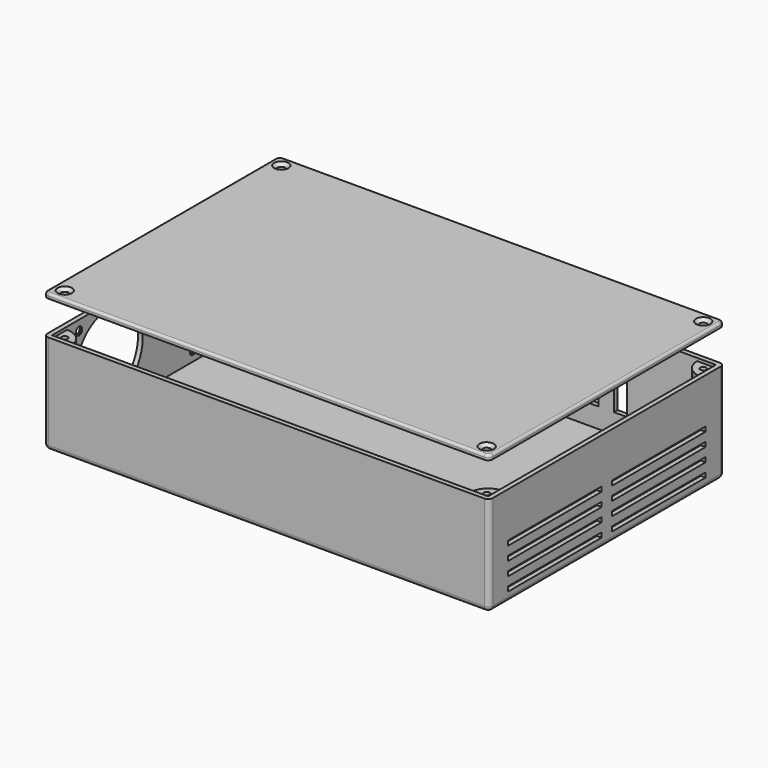
from build123d import *

# Parameters (mm, degrees)
SKETCH_W            = 185.99968
SKETCH_H            = 121.499768
PAD_DEPTH           = 40.45
THICKNESS_T         = 2
SKETCH001_W         = 50
SKETCH001_H         = 2
POCKET_DEPTH        = 2
LINEARPATTERN_COUNT = 4
LINEARPATTERN_PITCH = 5.741667
SKETCH002_R         = 18
POCKET001_DEPTH     = 2
SKETCH005_R         = 3
PAD001_DEPTH        = 6
SKETCH004_R         = 3.25
POCKET002_DEPTH     = 2
SKETCH006_R         = 1.25
HOLE_DEPTH          = 6
HOLE_TIPS_R         = 1.25
HOLE001_D           = 3.4
HOLE001_DEPTH       = 2
HOLE001_CSINK_D     = 6.1
HOLE001_CSINK_ANGLE = 90
HOLE001_TIPS_R      = 1.7
PAD004_DEPTH        = 39.25
SKETCH011_R         = 1.25
HOLE002_DEPTH       = 25
HOLE002_TIPS_R      = 1.25
PAD002_DEPTH        = 2
FILLET_R            = 1
SKETCH009_W         = 185.59968
SKETCH009_H         = 121.099768
PAD003_DEPTH        = 1
HOLE003_D           = 3.4
HOLE003_DEPTH       = 3
HOLE003_CSINK_D     = 6.1
HOLE003_CSINK_ANGLE = 90
HOLE003_TIPS_R      = 1.7
SKETCH013_W         = 12
SKETCH013_H         = 101.099768
POCKET003_DEPTH     = 1


with BuildPart() as body:
    # Sketch → Pad (new body)
    with BuildSketch(Plane.XY):
        with Locations((79.99984, 55.749884)):
            Rectangle(SKETCH_W, SKETCH_H)
    extrude(amount=PAD_DEPTH)

    # Thickness
    thickness_openings = [body.faces().sort_by_distance(p)[0] for p in [
        (79.99984, 55.749884, 40.45),
    ]]
    offset(amount=THICKNESS_T, openings=thickness_openings)

    # Sketch001 (on Face10 of Thickness) → Pocket (cut)
    with BuildSketch(Plane.YZ.offset(174.99968)):
        with Locations((28, 3)):
            Rectangle(SKETCH001_W, SKETCH001_H)
        with Locations((83.499768, 3)):
            Rectangle(SKETCH001_W, SKETCH001_H)
    pocket = extrude(amount=-POCKET_DEPTH, mode=Mode.SUBTRACT)

    # LinearPattern: Pocket ×4
    with Locations(*[(0, 0, i * LINEARPATTERN_PITCH) for i in range(1, LINEARPATTERN_COUNT)]):
        add(pocket, mode=Mode.SUBTRACT)

    # Sketch002 (on Face43 of LinearPattern) → Pocket001 (cut)
    with BuildSketch(Plane(origin=(-15, 0, 0), x_dir=(0, -1, 0), z_dir=(-1, 0, 0))):
        with Locations((-86.124826, 20.225)):
            Circle(SKETCH002_R)
        with Locations((-25.374942, 20.225)):
            Circle(SKETCH002_R)
    extrude(amount=-POCKET001_DEPTH, mode=Mode.SUBTRACT)

    # Sketch005 (on Face4 of LinearPattern) → Pad001 (join)
    with BuildSketch(Plane.XY):
        with Locations((3.499993, 112.499775)):
            Circle(SKETCH005_R)
        with Locations((156.499687, 112.499775)):
            Circle(SKETCH005_R)
        with Locations((156.499687, 3.499993)):
            Circle(SKETCH005_R)
        with Locations((3.499993, 3.499993)):
            Circle(SKETCH005_R)
    extrude(amount=PAD001_DEPTH)

    # Sketch004 → Pocket002 (cut)
    with BuildSketch(Plane(origin=(0, 118.499768, 0), x_dir=(-1, 0, 0), z_dir=(0, 1, 0))):
        with Locations((-46.165999, 10)):
            Circle(SKETCH004_R)
        Polygon((-150.529998, 10.7), (-141.029998, 10.7), (-141.029998, 6), (-145.779998, 6), (-150.529998, 6), align=None)
        Polygon((-134.994084, 24.5), (-129.494084, 24.5), (-129.494084, 8.5), (-132.244084, 8.5), (-134.994084, 8.5), align=None)
        Polygon((-122.903684, 24.5), (-117.403684, 24.5), (-117.403684, 8.5), (-120.153684, 8.5), (-122.903684, 8.5), align=None)
        Polygon((-111.016484, 24.5), (-105.516484, 24.5), (-105.516484, 8.5), (-108.266484, 8.5), (-111.016484, 8.5), align=None)
        Polygon((-100.062798, 21.5), (-94.062798, 21.5), (-94.062798, 7.5), (-97.062798, 7.5), (-100.062798, 7.5), align=None)
        Polygon((-88.738598, 24.5), (-73.738598, 24.5), (-73.738598, 7.5), (-81.238598, 7.5), (-88.738598, 7.5), align=None)
        Polygon((-69.884497, 21.5), (-53.884497, 21.5), (-53.884497, 7.5), (-61.884496, 7.5), (-69.884497, 7.5), align=None)
        Polygon((-38.179996, 10), (-26.679996, 10), (-26.679996, 7), (-32.429996, 7), (-38.179996, 7), align=None)
        Polygon((-19.965998, 18), (-9.465998, 18), (-9.465998, 7.5), (-14.715998, 7.5), (-19.965998, 7.5), align=None)
    extrude(amount=-POCKET002_DEPTH, mode=Mode.SUBTRACT)

    # Sketch006 (on Face54 of Pad001) → Hole (cut)
    with BuildSketch(Plane.XY.offset(6)):
        with Locations((3.499993, 112.499775)):
            Circle(SKETCH006_R)
        with Locations((156.499687, 112.499775)):
            Circle(SKETCH006_R)
        with Locations((156.499687, 3.499993)):
            Circle(SKETCH006_R)
        with Locations((3.499993, 3.499993)):
            Circle(SKETCH006_R)
    extrude(amount=-HOLE_DEPTH, mode=Mode.SUBTRACT)

    # Hole tips → Hole tip 1 section 0
    with BuildSketch(Plane.XY, mode=Mode.PRIVATE) as hole_tip_1_s0:
        with Locations((3.499993, 112.499775)):
            Circle(HOLE_TIPS_R)
    loft([hole_tip_1_s0.sketch, Vertex(3.499993, 112.499775, -0.751076)], mode=Mode.SUBTRACT)

    # Hole tips → Hole tip 2 section 0
    with BuildSketch(Plane.XY, mode=Mode.PRIVATE) as hole_tip_2_s0:
        with Locations((156.499687, 112.499775)):
            Circle(HOLE_TIPS_R)
    loft([hole_tip_2_s0.sketch, Vertex(156.499687, 112.499775, -0.751076)], mode=Mode.SUBTRACT)

    # Hole tips → Hole tip 3 section 0
    with BuildSketch(Plane.XY, mode=Mode.PRIVATE) as hole_tip_3_s0:
        with Locations((156.499687, 3.499993)):
            Circle(HOLE_TIPS_R)
    loft([hole_tip_3_s0.sketch, Vertex(156.499687, 3.499993, -0.751076)], mode=Mode.SUBTRACT)

    # Hole tips → Hole tip 4 section 0
    with BuildSketch(Plane.XY, mode=Mode.PRIVATE) as hole_tip_4_s0:
        with Locations((3.499993, 3.499993)):
            Circle(HOLE_TIPS_R)
    loft([hole_tip_4_s0.sketch, Vertex(3.499993, 3.499993, -0.751076)], mode=Mode.SUBTRACT)

    # Hole001
    with Locations(Plane(origin=(-15, 0, 0), x_dir=(0, -1, 0), z_dir=(-1, 0, 0))):
        with Locations((-102.124826, 36.225), (-70.124826, 36.225), (-41.374942, 36.225), (-9.374942, 36.225), (-9.374942, 4.225), (-41.374942, 4.225), (-70.124826, 4.225), (-102.124826, 4.225)):
            CounterSinkHole(HOLE001_D / 2, HOLE001_CSINK_D / 2, depth=HOLE001_DEPTH, counter_sink_angle=HOLE001_CSINK_ANGLE)

    # Hole001 tips → Hole001 tip 1 section 0
    with BuildSketch(Plane(origin=(-13, 0, 0), x_dir=(0, -1, 0), z_dir=(-1, 0, 0)), mode=Mode.PRIVATE) as hole001_tip_1_s0:
        with Locations((-102.124826, 36.225)):
            Circle(HOLE001_TIPS_R)
    loft([hole001_tip_1_s0.sketch, Vertex(-11.978537, 102.124826, 36.225)], mode=Mode.SUBTRACT)

    # Hole001 tips → Hole001 tip 2 section 0
    with BuildSketch(Plane(origin=(-13, 0, 0), x_dir=(0, -1, 0), z_dir=(-1, 0, 0)), mode=Mode.PRIVATE) as hole001_tip_2_s0:
        with Locations((-70.124826, 36.225)):
            Circle(HOLE001_TIPS_R)
    loft([hole001_tip_2_s0.sketch, Vertex(-11.978537, 70.124826, 36.225)], mode=Mode.SUBTRACT)

    # Hole001 tips → Hole001 tip 3 section 0
    with BuildSketch(Plane(origin=(-13, 0, 0), x_dir=(0, -1, 0), z_dir=(-1, 0, 0)), mode=Mode.PRIVATE) as hole001_tip_3_s0:
        with Locations((-41.374942, 36.225)):
            Circle(HOLE001_TIPS_R)
    loft([hole001_tip_3_s0.sketch, Vertex(-11.978537, 41.374942, 36.225)], mode=Mode.SUBTRACT)

    # Hole001 tips → Hole001 tip 4 section 0
    with BuildSketch(Plane(origin=(-13, 0, 0), x_dir=(0, -1, 0), z_dir=(-1, 0, 0)), mode=Mode.PRIVATE) as hole001_tip_4_s0:
        with Locations((-9.374942, 36.225)):
            Circle(HOLE001_TIPS_R)
    loft([hole001_tip_4_s0.sketch, Vertex(-11.978537, 9.374942, 36.225)], mode=Mode.SUBTRACT)

    # Hole001 tips → Hole001 tip 5 section 0
    with BuildSketch(Plane(origin=(-13, 0, 0), x_dir=(0, -1, 0), z_dir=(-1, 0, 0)), mode=Mode.PRIVATE) as hole001_tip_5_s0:
        with Locations((-9.374942, 4.225)):
            Circle(HOLE001_TIPS_R)
    loft([hole001_tip_5_s0.sketch, Vertex(-11.978537, 9.374942, 4.225)], mode=Mode.SUBTRACT)

    # Hole001 tips → Hole001 tip 6 section 0
    with BuildSketch(Plane(origin=(-13, 0, 0), x_dir=(0, -1, 0), z_dir=(-1, 0, 0)), mode=Mode.PRIVATE) as hole001_tip_6_s0:
        with Locations((-41.374942, 4.225)):
            Circle(HOLE001_TIPS_R)
    loft([hole001_tip_6_s0.sketch, Vertex(-11.978537, 41.374942, 4.225)], mode=Mode.SUBTRACT)

    # Hole001 tips → Hole001 tip 7 section 0
    with BuildSketch(Plane(origin=(-13, 0, 0), x_dir=(0, -1, 0), z_dir=(-1, 0, 0)), mode=Mode.PRIVATE) as hole001_tip_7_s0:
        with Locations((-70.124826, 4.225)):
            Circle(HOLE001_TIPS_R)
    loft([hole001_tip_7_s0.sketch, Vertex(-11.978537, 70.124826, 4.225)], mode=Mode.SUBTRACT)

    # Hole001 tips → Hole001 tip 8 section 0
    with BuildSketch(Plane(origin=(-13, 0, 0), x_dir=(0, -1, 0), z_dir=(-1, 0, 0)), mode=Mode.PRIVATE) as hole001_tip_8_s0:
        with Locations((-102.124826, 4.225)):
            Circle(HOLE001_TIPS_R)
    loft([hole001_tip_8_s0.sketch, Vertex(-11.978537, 102.124826, 4.225)], mode=Mode.SUBTRACT)

    # Sketch010 (on Face3 of Hole001) → Pad004 (join)
    with BuildSketch(Plane.XY):
        with BuildLine():
            Line((-13, 116.499768), (-5, 116.499768))
            ThreePointArc((-13, 108.499768), (-7.343146, 110.842914), (-5, 116.499768))
            Line((-13, 108.499768), (-13, 116.499768))
        make_face()
        with BuildLine():
            Line((172.99968, 116.499768), (164.99968, 116.499768))
            ThreePointArc((164.99968, 116.499768), (167.342826, 110.842914), (172.99968, 108.499768))
            Line((172.99968, 108.499768), (172.99968, 116.499768))
        make_face()
        with BuildLine():
            Line((172.99968, -5), (172.99968, 3))
            ThreePointArc((172.99968, 3), (167.342826, 0.656854), (164.99968, -5))
            Line((164.99968, -5), (172.99968, -5))
        make_face()
        with BuildLine():
            Line((-13, -5), (-13, 3))
            ThreePointArc((-5, -5), (-7.343146, 0.656854), (-13, 3))
            Line((-5, -5), (-13, -5))
        make_face()
    extrude(amount=PAD004_DEPTH)

    # Sketch011 (on Face91 of Pad004) → Hole002 (cut)
    with BuildSketch(Plane.XY.offset(39.25)):
        with Locations((169.99968, -2)):
            Circle(SKETCH011_R)
        with Locations((169.99968, 113.499768)):
            Circle(SKETCH011_R)
        with Locations((-10, 113.499768)):
            Circle(SKETCH011_R)
        with Locations((-10, -2)):
            Circle(SKETCH011_R)
    extrude(amount=-HOLE002_DEPTH, mode=Mode.SUBTRACT)

    # Hole002 tips → Hole002 tip 1 section 0
    with BuildSketch(Plane.XY.offset(14.25), mode=Mode.PRIVATE) as hole002_tip_1_s0:
        with Locations((169.99968, -2)):
            Circle(HOLE002_TIPS_R)
    loft([hole002_tip_1_s0.sketch, Vertex(169.99968, -2, 13.498924)], mode=Mode.SUBTRACT)

    # Hole002 tips → Hole002 tip 2 section 0
    with BuildSketch(Plane.XY.offset(14.25), mode=Mode.PRIVATE) as hole002_tip_2_s0:
        with Locations((169.99968, 113.499768)):
            Circle(HOLE002_TIPS_R)
    loft([hole002_tip_2_s0.sketch, Vertex(169.99968, 113.499768, 13.498924)], mode=Mode.SUBTRACT)

    # Hole002 tips → Hole002 tip 3 section 0
    with BuildSketch(Plane.XY.offset(14.25), mode=Mode.PRIVATE) as hole002_tip_3_s0:
        with Locations((-10, 113.499768)):
            Circle(HOLE002_TIPS_R)
    loft([hole002_tip_3_s0.sketch, Vertex(-10, 113.499768, 13.498924)], mode=Mode.SUBTRACT)

    # Hole002 tips → Hole002 tip 4 section 0
    with BuildSketch(Plane.XY.offset(14.25), mode=Mode.PRIVATE) as hole002_tip_4_s0:
        with Locations((-10, -2)):
            Circle(HOLE002_TIPS_R)
    loft([hole002_tip_4_s0.sketch, Vertex(-10, -2, 13.498924)], mode=Mode.SUBTRACT)


with BuildPart() as body001:
    # Sketch008 → Pad002 (new body)
    with BuildSketch(Plane.XY):
        with BuildLine():
            Line((-13, 118.499768), (172.99968, 118.499768))
            ThreePointArc((174.99968, 116.499768), (174.413894, 117.913982), (172.99968, 118.499768))
            Line((174.99968, 116.499768), (174.99968, -5))
            ThreePointArc((172.99968, -7), (174.413894, -6.414214), (174.99968, -5))
            Line((172.99968, -7), (-13, -7))
            ThreePointArc((-15, -5), (-14.414214, -6.414214), (-13, -7))
            Line((-15, -5), (-15, 116.499768))
            ThreePointArc((-13, 118.499768), (-14.414214, 117.913982), (-15, 116.499768))
        make_face()
    extrude(amount=PAD002_DEPTH)

    # Fillet
    fillet_edges = [body001.edges().sort_by_distance(p)[0] for p in [
        (174.99968, 55.749884, 2),
        (174.413894, 117.913982, 2),
        (79.99984, 118.499768, 2),
        (-14.414214, 117.913982, 2),
        (-15, 55.749884, 2),
        (-14.414214, -6.414214, 2),
        (79.99984, -7, 2),
        (174.413894, -6.414214, 2),
    ]]
    fillet(fillet_edges, radius=FILLET_R)

    # Sketch009 (on Face4 of Fillet) → Pad003 (join)
    with BuildSketch(Plane(origin=(0, 0, 0), x_dir=(1, 0, 0), z_dir=(0, 0, -1))):
        with Locations((79.99984, -55.749884)):
            Rectangle(SKETCH009_W, SKETCH009_H)
    extrude(amount=PAD003_DEPTH)

    # Hole003
    with Locations(Plane.XY.offset(2)):
        with Locations((-10, 113.499768), (169.99968, 113.499768), (169.99968, -2), (-10, -2)):
            CounterSinkHole(HOLE003_D / 2, HOLE003_CSINK_D / 2, depth=HOLE003_DEPTH, counter_sink_angle=HOLE003_CSINK_ANGLE)

    # Hole003 tips → Hole003 tip 1 section 0
    with BuildSketch(Plane.XY.offset(-1), mode=Mode.PRIVATE) as hole003_tip_1_s0:
        with Locations((-10, 113.499768)):
            Circle(HOLE003_TIPS_R)
    loft([hole003_tip_1_s0.sketch, Vertex(-10, 113.499768, -2.021463)], mode=Mode.SUBTRACT)

    # Hole003 tips → Hole003 tip 2 section 0
    with BuildSketch(Plane.XY.offset(-1), mode=Mode.PRIVATE) as hole003_tip_2_s0:
        with Locations((169.99968, 113.499768)):
            Circle(HOLE003_TIPS_R)
    loft([hole003_tip_2_s0.sketch, Vertex(169.99968, 113.499768, -2.021463)], mode=Mode.SUBTRACT)

    # Hole003 tips → Hole003 tip 3 section 0
    with BuildSketch(Plane.XY.offset(-1), mode=Mode.PRIVATE) as hole003_tip_3_s0:
        with Locations((169.99968, -2)):
            Circle(HOLE003_TIPS_R)
    loft([hole003_tip_3_s0.sketch, Vertex(169.99968, -2, -2.021463)], mode=Mode.SUBTRACT)

    # Hole003 tips → Hole003 tip 4 section 0
    with BuildSketch(Plane.XY.offset(-1), mode=Mode.PRIVATE) as hole003_tip_4_s0:
        with Locations((-10, -2)):
            Circle(HOLE003_TIPS_R)
    loft([hole003_tip_4_s0.sketch, Vertex(-10, -2, -2.021463)], mode=Mode.SUBTRACT)

    # Sketch013 (on Face27 of Hole003) → Pocket003 (cut)
    with BuildSketch(Plane(origin=(0, 0, -1), x_dir=(1, 0, 0), z_dir=(0, 0, -1))):
        with Locations((166.79968, -55.749884)):
            Rectangle(SKETCH013_W, SKETCH013_H)
    extrude(amount=-POCKET003_DEPTH, mode=Mode.SUBTRACT)


with BuildPart() as body001_1:
    # Body001 placement: moved
    add(body001.part.moved(Location((0, 0, 55))))


solid = Compound([body.part, body001_1.part])
